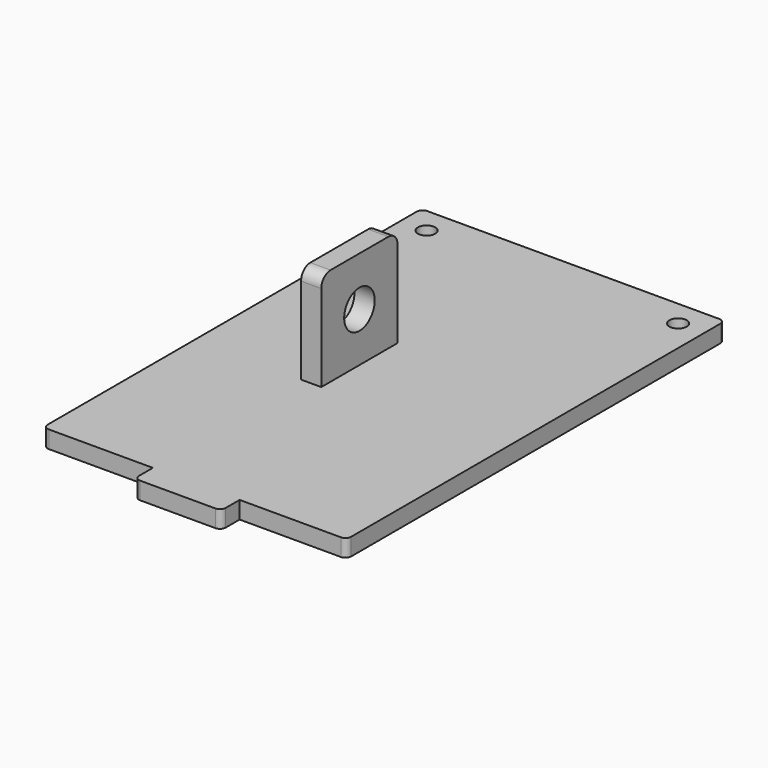
from build123d import *

# Parameters (mm, degrees)
F0_R     = 1.5
F1_DEPTH = 3
F3_START = 18.5
F2_W     = 16.5
F2_H     = 17
F2_R     = 3.3
F3_DEPTH = 3.5
F4_R     = 2


with BuildPart() as f1:
    # F0 (on Top) → F1 (new body)
    with BuildSketch(Plane.XY):
        with BuildLine():
            Line((26.25, 0), (1, 0))
            ThreePointArc((1, 0), (0.2928932188, -0.2928932188), (0, -1))
            Line((0, -1), (0, -40.9))
            Line((0, -40.9), (26.25, -40.9))
            Line((26.25, -40.9), (26.25, 0))
        make_face()
        with Locations((4.5, -4.5)):
            Circle(F0_R, mode=Mode.SUBTRACT)
        with BuildLine():
            Line((51.5, 0), (26.25, 0))
            Line((26.25, 0), (26.25, -40.9))
            Line((26.25, -40.9), (52.5, -40.9))
            Line((52.5, -40.9), (52.5, -1))
            ThreePointArc((52.5, -1), (52.2071067812, -0.2928932188), (51.5, 0))
        make_face()
        with Locations((48, -4.5)):
            Circle(F0_R, mode=Mode.SUBTRACT)
        with BuildLine():
            Line((52.5, -40.9), (26.25, -40.9))
            Line((26.25, -40.9), (26.25, -81.8))
            Line((26.25, -81.8), (33.997034058, -81.8))
            Line((33.997034058, -81.8), (51.5, -81.8))
            ThreePointArc((51.5, -81.8), (52.2071067812, -81.5071067812), (52.5, -80.8))
            Line((52.5, -80.8), (52.5, -40.9))
        make_face()
        with BuildLine():
            Line((26.25, -81.8), (26.25, -40.9))
            Line((26.25, -40.9), (0, -40.9))
            Line((0, -40.9), (0, -80.8))
            ThreePointArc((0, -80.8), (0.2928932188, -81.5071067812), (1, -81.8))
            Line((1, -81.8), (18.997034058, -81.8))
            Line((18.997034058, -81.8), (26.25, -81.8))
        make_face()
        with BuildLine():
            Line((26.25, -85.8), (26.25, -81.8))
            Line((26.25, -81.8), (18.997034058, -81.8))
            Line((18.997034058, -81.8), (18.997034058, -84.8))
            ThreePointArc((18.997034058, -84.8), (19.2899272768, -85.5071067812), (19.997034058, -85.8))
            Line((19.997034058, -85.8), (26.25, -85.8))
        make_face()
        with BuildLine():
            Line((33.997034058, -81.8), (26.25, -81.8))
            Line((26.25, -81.8), (26.25, -85.8))
            Line((26.25, -85.8), (32.997034058, -85.8))
            ThreePointArc((32.997034058, -85.8), (33.7041408392, -85.5071067812), (33.997034058, -84.8))
            Line((33.997034058, -84.8), (33.997034058, -81.8))
        make_face()
    extrude(amount=-F1_DEPTH)

    # F2 (on Right) → F3 (join)
    with BuildSketch(Plane.YZ.offset(F3_START)):
        with Locations((-40.9, 8.5)):
            Rectangle(F2_W, F2_H)
        with Locations((-40.9, 8.5)):
            Circle(F2_R, mode=Mode.SUBTRACT)
    extrude(amount=F3_DEPTH)

    # F4
    f4_edges = [f1.edges().sort_by_distance(p)[0] for p in [
        (20.25, -49.15, 17),
        (20.25, -32.65, 17),
    ]]
    fillet(f4_edges, radius=F4_R)


solid = f1.part
